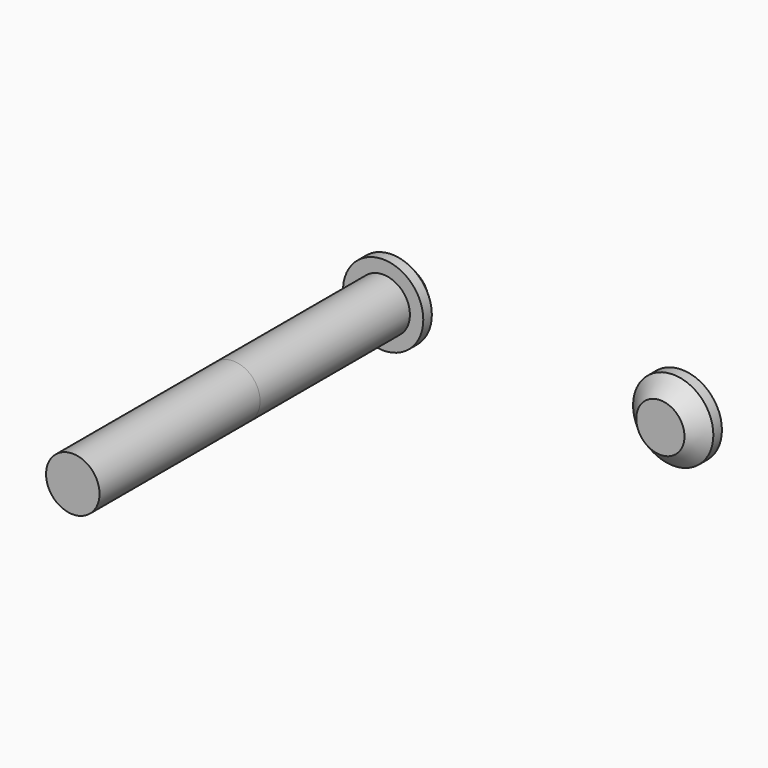
from build123d import *

# Parameters (mm, degrees)
F0_R     = 5
F1_DEPTH = 35
F0_R_2   = 7.5
F2_DEPTH = 5
F3_DEPTH = 5
F4_DEPTH = 2.5
F5_R     = 5
F6_DEPTH = 37.5
F7_SIZE  = 3
F8_SIZE  = 3


with BuildPart() as f1:
    # F0 (on Front) → F1 (new body)
    with BuildSketch(Plane.XZ):
        Circle(F0_R)
    extrude(amount=F1_DEPTH)

    # F0 (on Front) → F2 (join)
    with BuildSketch(Plane.XZ):
        Circle(F0_R_2)
        Circle(F0_R, mode=Mode.SUBTRACT)
        Circle(F0_R)
    extrude(amount=-F2_DEPTH)

    # F7
    f7_edges = [f1.edges().sort_by_distance(p)[0] for p in [
        (-7.5, 5, 0),
    ]]
    chamfer(f7_edges, length=F7_SIZE)


with BuildPart() as f3:
    # F0 (on Front) → F3 (new body)
    with BuildSketch(Plane.XZ):
        with Locations((55.808652, 0)):
            Circle(F0_R_2)
        with Locations((55.808652, 0)):
            Circle(F0_R, mode=Mode.SUBTRACT)
        with Locations((55.808652, 0)):
            Circle(F0_R)
    extrude(amount=F3_DEPTH)

    # F0 (on Front) → F4 (cut)
    with BuildSketch(Plane.XZ):
        with Locations((55.808652, 0)):
            Circle(F0_R)
    extrude(amount=F4_DEPTH, mode=Mode.SUBTRACT)

    # F8
    f8_edges = [f3.edges().sort_by_distance(p)[0] for p in [
        (48.308652, -5, 0),
    ]]
    chamfer(f8_edges, length=F8_SIZE)


with BuildPart() as f6:
    # F5 (on face) → F6 (new body)
    with BuildSketch(Plane.XZ.offset(35)):
        Circle(F5_R)
    extrude(amount=F6_DEPTH)


solid = Compound([f1.part, f3.part, f6.part])
